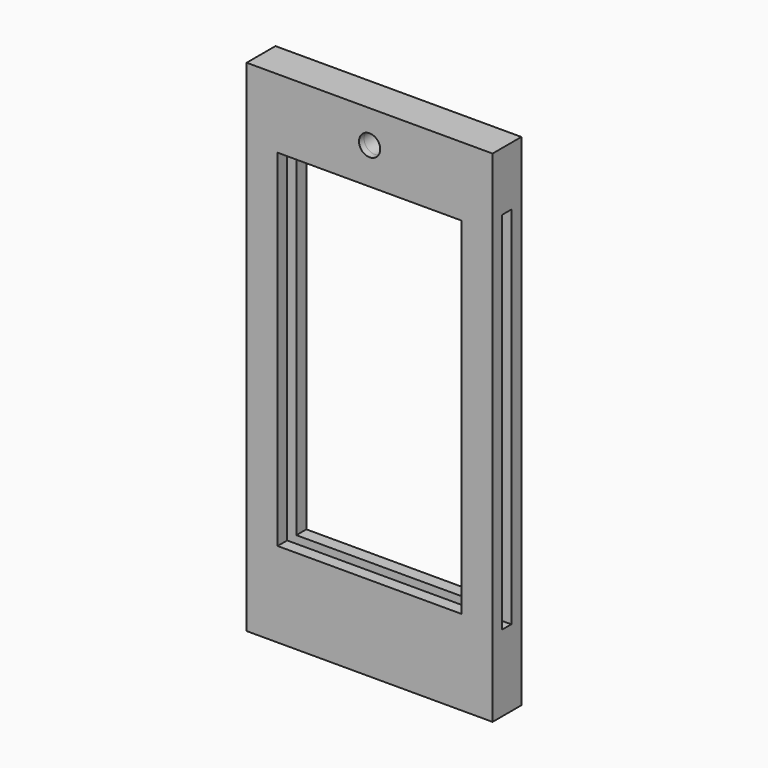
from build123d import *

# Parameters (mm, degrees)
F0_W      = 58.02
F0_H      = 96.3
F1_DEPTH  = 5.5
F2_W      = 43.42
F2_H      = 81.7
F3_DEPTH  = 5.501
F4_W      = 2.4
F4_H      = 85.75
F5_DEPTH  = 54.5
F6_DEPTH  = 9
F7_R      = 2.5
F8_DEPTH  = 5.501
F9_DEPTH  = 16
F10_W     = 47
F10_H     = 3.25
F11_DEPTH = 19
F13_DEPTH = 0.4
F14_DEPTH = 3.25
F15_DEPTH = 2
F16_DEPTH = 2
F12_R     = 2.4
F17_DEPTH = 2
F18_R     = 0.5
F19_DEPTH = 0.3
F20_DEPTH = 1.5
F21_DEPTH = 1.5
F22_DEPTH = 0.2


with BuildPart() as f1:
    # F0 (on Front) → F1 (new body)
    with BuildSketch(Plane.XZ):
        Rectangle(F0_W, F0_H)
    extrude(amount=F1_DEPTH)

    # F2 (on face) → F3 (cut, through all)
    with BuildSketch(Plane.XZ.offset(5.5)):
        Rectangle(F2_W, F2_H)
    extrude(amount=-F3_DEPTH, mode=Mode.SUBTRACT)

    # F4 (on face) → F5 (cut)
    with BuildSketch(Plane.YZ.offset(29.01)):
        with Locations((-2.6675368889, 0)):
            Rectangle(F4_W, F4_H)
    extrude(amount=-F5_DEPTH, mode=Mode.SUBTRACT)

    # F6 (add): a face of the model
    f6_faces = [f1.faces().sort_by_distance(p)[0] for p in [
        (0, -2.75, 48.15),
    ]]
    extrude(f6_faces, amount=F6_DEPTH)

    # F7 (on face) → F8 (cut, through all)
    with BuildSketch(Plane.XZ.offset(5.5)):
        with Locations((0, 49.4283474982)):
            Circle(F7_R)
    extrude(amount=-F8_DEPTH, mode=Mode.SUBTRACT)

    # F9 (add): a face of the model
    f9_faces = [f1.faces().sort_by_distance(p)[0] for p in [
        (0, -2.75, -48.15),
    ]]
    extrude(f9_faces, amount=F9_DEPTH)

    # F10 (on face) → F11 (cut)
    with BuildSketch(Plane(origin=(0, 0, -64.15), x_dir=(1, 0, 0), z_dir=(0, 0, -1))):
        with Locations((0, 2.75)):
            Rectangle(F10_W, F10_H)
    extrude(amount=-F11_DEPTH, mode=Mode.SUBTRACT)

    # F13 (cut): a face of the model
    f13_faces = [f1.faces().sort_by_distance(p)[0] for p in [
        (1.76, -2.6675368889, 42.875),
    ]]
    extrude(f13_faces, amount=-F13_DEPTH, mode=Mode.SUBTRACT)

    # F14 (cut): a face of the model
    f14_faces = [f1.faces().sort_by_distance(p)[0] for p in [
        (-28.4271989705, -2.75, -64.15),
    ]]
    extrude(f14_faces, amount=-F14_DEPTH, mode=Mode.SUBTRACT)

    # F15 (cut): a face of the model
    f15_faces = [f1.faces().sort_by_distance(p)[0] for p in [
        (23.5, -2.75, -53.025),
    ]]
    extrude(f15_faces, amount=-F15_DEPTH, mode=Mode.SUBTRACT)

    # F16 (cut): a face of the model
    f16_faces = [f1.faces().sort_by_distance(p)[0] for p in [
        (-23.5, -2.75, -53.025),
    ]]
    extrude(f16_faces, amount=-F16_DEPTH, mode=Mode.SUBTRACT)

    # F12 (on face) → F17 (join)
    with BuildSketch(Plane.XZ.offset(1.125)):
        with Locations((-16.5364966542, -54.65)):
            Circle(F12_R)
    extrude(amount=F17_DEPTH)

    # F18
    f18_edges = [f1.edges().sort_by_distance(p)[0] for p in [
        (-18.936497, -3.125, -54.65),
    ]]
    fillet(f18_edges, radius=F18_R)

    # F19 (cut): a face of the model
    f19_faces = [f1.faces().sort_by_distance(p)[0] for p in [
        (27.990584849, -3.8675368889, 0.2),
    ]]
    extrude(f19_faces, amount=-F19_DEPTH, mode=Mode.SUBTRACT)

    # F20 (add): a face of the model
    f20_faces = [f1.faces().sort_by_distance(p)[0] for p in [
        (27.6946246581, 0, -1.875),
    ]]
    extrude(f20_faces, amount=F20_DEPTH)

    # F21 (add): a face of the model
    f21_faces = [f1.faces().sort_by_distance(p)[0] for p in [
        (27.6946246581, -5.5, -1.875),
    ]]
    extrude(f21_faces, amount=F21_DEPTH)

    # F22 (cut): a face of the model
    f22_faces = [f1.faces().sort_by_distance(p)[0] for p in [
        (0, -4.375, -53.025),
    ]]
    extrude(f22_faces, amount=-F22_DEPTH, mode=Mode.SUBTRACT)


solid = f1.part
